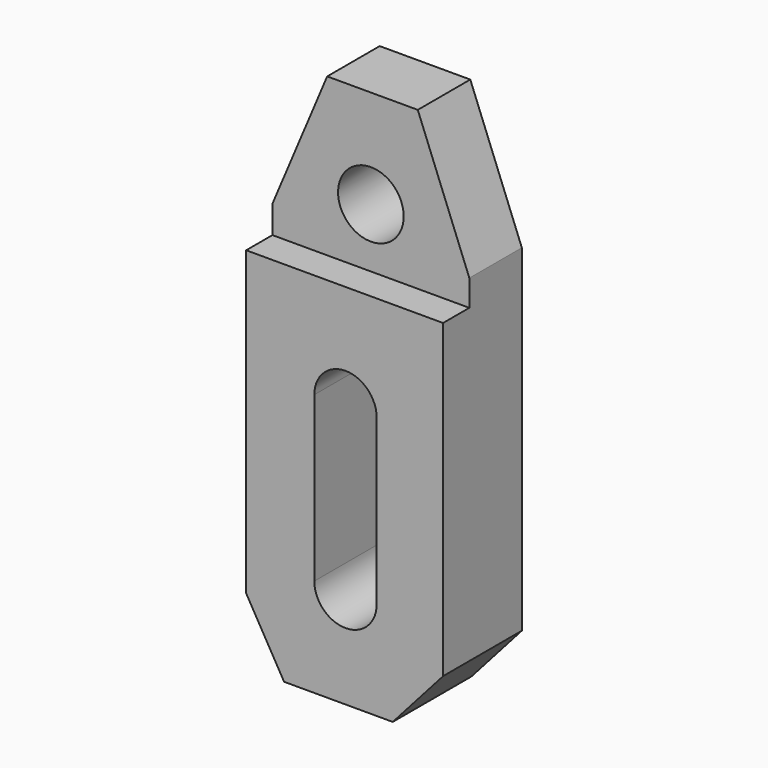
from build123d import *

# Parameters (mm, degrees)
F0_R     = 5
F1_DEPTH = 15
F3_DEPTH = 25


with BuildPart() as f1:
    # F0 (on Front) → F1 (new body)
    with BuildSketch(Plane.XZ):
        Polygon((-9.226497, -50.236377), (7.332118, -50.236377), (15, -41.6029), (15, 9.763623), (7.147167, 29.763623), (-6.655383, 29.763623), (-15, 9.963766), (-15, -40.236377), align=None)
        with BuildLine():
            Line((-4.617641, -35.236377), (-4.617641, -10.236377))
            ThreePointArc((-4.617641, -10.236377), (0.135772, -5.482964), (4.889185, -10.236377))
            Line((4.889185, -10.236377), (4.889185, -35.236377))
            ThreePointArc((4.889185, -35.236377), (0.135772, -39.98979), (-4.617641, -35.236377))
        make_face(mode=Mode.SUBTRACT)
        with Locations((0, 14.763623)):
            Circle(F0_R, mode=Mode.SUBTRACT)
    extrude(amount=F1_DEPTH)

    # F2 (on Right) → F3 (cut, symmetric)
    with BuildSketch(Plane.YZ):
        Polygon((-15, 9.763623), (-15, 5.763623), (-10, 5.763623), (-10, 39.44074), (-15, 39.44074), align=None)
    extrude(amount=F3_DEPTH, both=True, mode=Mode.SUBTRACT)


solid = f1.part
